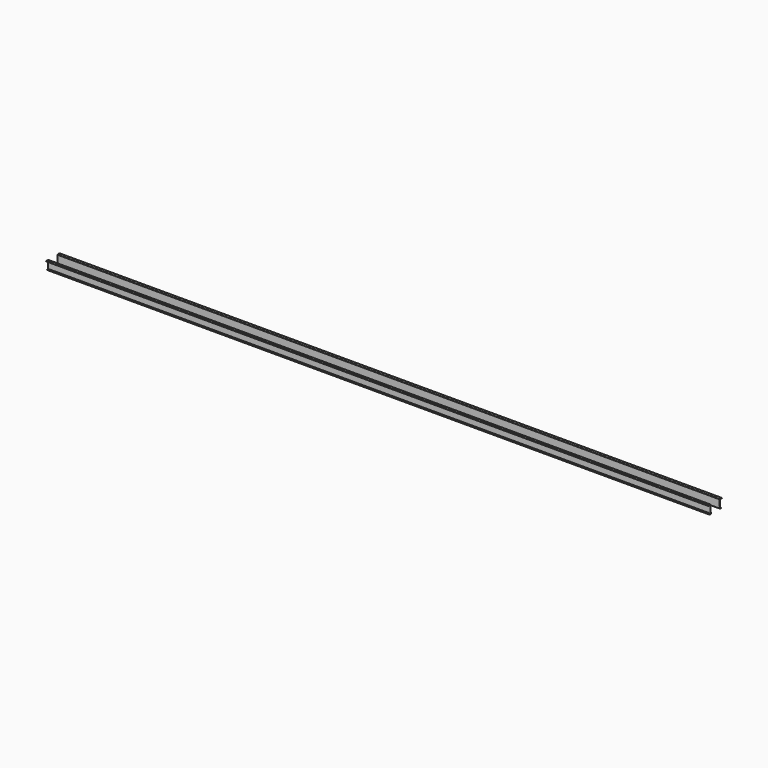
from build123d import *

# Parameters (mm, degrees)
F1_DEPTH = 11830
F3_DEPTH = 51


with BuildPart() as f1:
    # F0 (on Right) → F1 (new body)
    with BuildSketch(Plane.YZ):
        with BuildLine():
            Line((13.144038, 14.637224), (-32.855962, 14.637224))
            Line((-32.855962, 14.637224), (-32.855962, 9.637224))
            Line((-32.855962, 9.637224), (8.144038, 9.637224))
            ThreePointArc((8.144038, 9.637224), (11.679572, 8.172757), (13.144038, 4.637224))
            Line((13.144038, 4.637224), (13.144038, -124.362776))
            ThreePointArc((13.144038, -124.362776), (11.679572, -127.89831), (8.144038, -129.362776))
            Line((8.144038, -129.362776), (-10.855962, -129.362776))
            Line((-10.855962, -129.362776), (-10.855962, -134.362776))
            Line((-10.855962, -134.362776), (13.144038, -134.362776))
            ThreePointArc((13.144038, -134.362776), (16.679572, -132.89831), (18.144038, -129.362776))
            Line((18.144038, -129.362776), (18.144038, 9.637224))
            ThreePointArc((18.144038, 9.637224), (16.679572, 13.172757), (13.144038, 14.637224))
        make_face()
    extrude(amount=F1_DEPTH)

    # F2 (on face) → F3 (cut)
    with BuildSketch(Plane(origin=(0, 18.144038, 0), x_dir=(-1, 0, 0), z_dir=(0, 1, 0))):
        with BuildLine():
            Line((-11824, 9.637224), (-11830, 9.637224))
            Line((-11830, 9.637224), (-11830, -103.362776))
            Line((-11830, -103.362776), (-11829, -103.362776))
            ThreePointArc((-11829, -103.362776), (-11825.464466, -101.89831), (-11824, -98.362776))
            Line((-11824, -98.362776), (-11824, 9.637224))
        make_face()
        Polygon((-11830, 20.8505), (-11830, 9.637224), (-11824, 9.637224), (-11824, 20.8505), (-11825, 20.8505), align=None)
    extrude(amount=-F3_DEPTH, mode=Mode.SUBTRACT)


with BuildPart() as f5_1:
    # F5: instance of F1
    add(f1.part.mirror(Plane(origin=(5912.580681, 118.144038, -59.868277), x_dir=(-1, 0, 0), z_dir=(0, 1, 0))))


solid = Compound([f1.part, f5_1.part])
